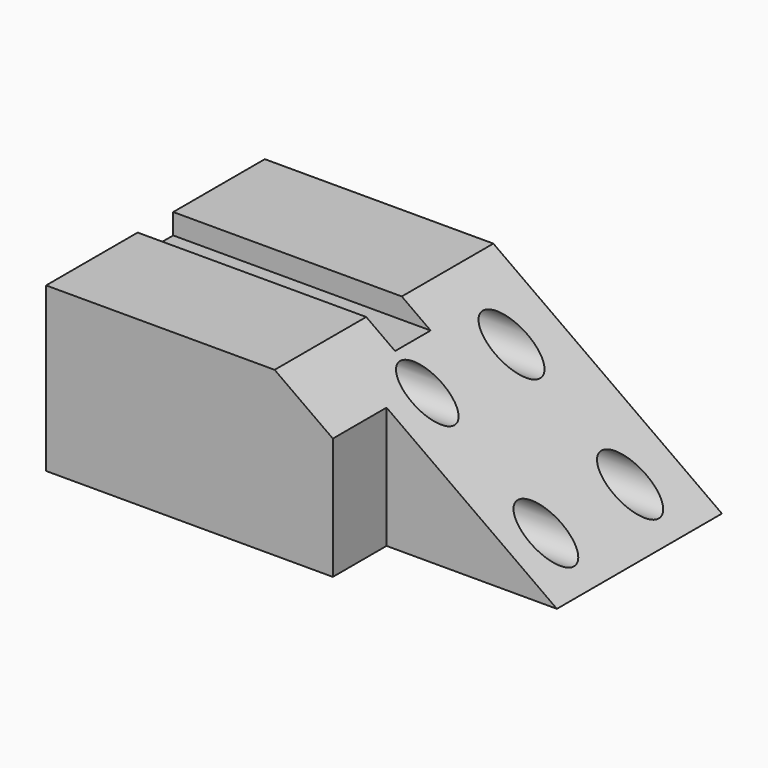
from build123d import *

# Parameters (mm, degrees)
F0_W     = 172.6877242327
F0_H     = 103.2821238041
F1_DEPTH = 61.722
F2_R     = 7.7359676361
F2_R_2   = 7.3409655567
F2_R_3   = 7.5923806125
F2_R_4   = 7.7547702854
F3_DEPTH = 324.104
F5_DEPTH = 152.4
F6_W     = 64.3570628017
F6_H     = 25.3581311554
F7_DEPTH = 75.438
F8_W     = 16.7872086167
F8_H     = 7.7908643157
F9_DEPTH = 109.728


with BuildPart() as f1:
    # F0 (on Top) → F1 (new body)
    with BuildSketch(Plane.XY):
        Rectangle(F0_W, F0_H)
    extrude(amount=F1_DEPTH)

    # F2 (on face) → F3 (cut)
    with BuildSketch(Plane.YZ.offset(86.3438621163)):
        with Locations((30.3141865879, 44.6238219738)):
            Circle(F2_R)
        with Locations((-9.4450721517, 44.6238219738)):
            Circle(F2_R_2)
        with Locations((-9.4450721517, 12.600524351)):
            Circle(F2_R_3)
        with Locations((30.3141865879, 12.600524351)):
            Circle(F2_R_4)
    extrude(amount=-F3_DEPTH, mode=Mode.SUBTRACT)

    # F4 (on face) → F5 (cut)
    with BuildSketch(Plane.XZ.offset(51.641061902)):
        Polygon((86.3438621163, 61.722), (0, 61.722), (86.3438621163, 0), align=None)
    extrude(amount=-F5_DEPTH, mode=Mode.SUBTRACT)

    # F6 (on face) → F7 (cut)
    with BuildSketch(Plane(origin=(0, 0, 0), x_dir=(1, 0, 0), z_dir=(0, 0, -1))):
        with Locations((54.1653307155, 38.9619963244)):
            Rectangle(F6_W, F6_H)
    extrude(amount=-F7_DEPTH, mode=Mode.SUBTRACT)

    # F8 (on face) → F9 (cut)
    with BuildSketch(Plane(origin=(-86.3438621163, 0, 0), x_dir=(0, -1, 0), z_dir=(-1, 0, 0))):
        with Locations((0, 57.8265678421)):
            Rectangle(F8_W, F8_H)
    extrude(amount=-F9_DEPTH, mode=Mode.SUBTRACT)


solid = f1.part
